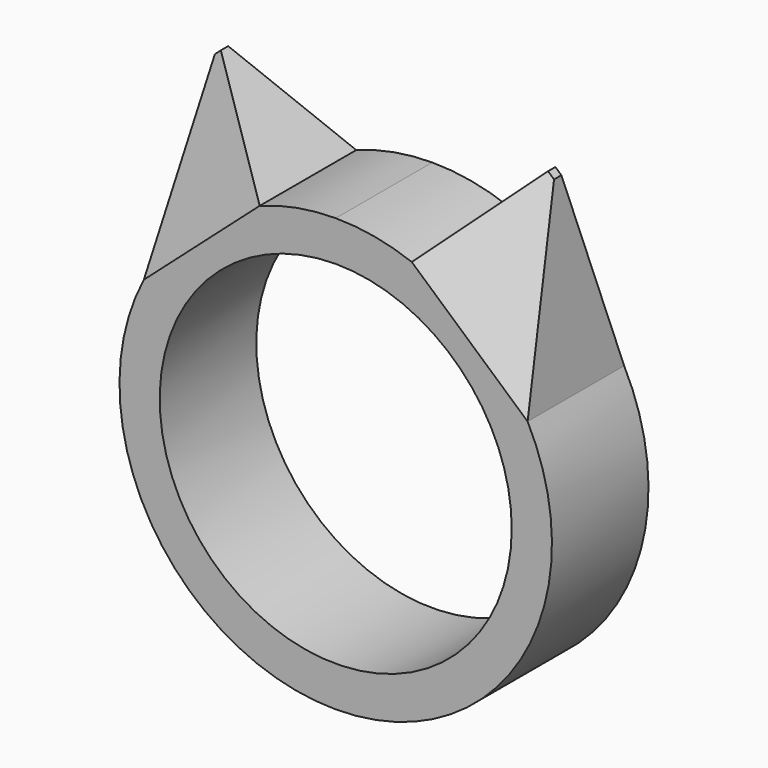
from build123d import *

# Parameters (mm, degrees)
F1_DEPTH  = 6
F1_FACE_W = 6
F1_FACE_H = 7.6992507409
F3_W      = 0.3979424946
F3_H      = 0.4551622551


with BuildPart() as f1:
    # F0 (on Front) → F1 (new body)
    with BuildSketch(Plane.XZ):
        with BuildLine():
            ThreePointArc((3.7797707351, 10.0635894784), (1.9207958125, 10.5770054102), (0, 10.75))
            ThreePointArc((0, 10.75), (-1.9207958125, 10.5770054102), (-3.7797707351, 10.0635894784))
            Line((-3.7797707351, 10.0635894784), (-9.5399799449, 4.9549250904))
            ThreePointArc((-9.5399799449, 4.9549250904), (0, -10.75), (9.5399799449, 4.9549250904))
            Line((9.5399799449, 4.9549250904), (3.7797707351, 10.0635894784))
        make_face()
        with BuildLine():
            ThreePointArc((0, 8.75), (6.1871843354, 6.1871843354), (8.75, 0))
            ThreePointArc((8.75, 0), (-6.1871843354, -6.1871843354), (0, 8.75))
        make_face(mode=Mode.SUBTRACT)
    extrude(amount=F1_DEPTH)

    # F1_face (on face) → F4 section 0
    with BuildSketch(Plane(origin=(6.65987534, -3, 7.5092572844), x_dir=(0, 1, 0), z_dir=(0.663527473, 0, 0.7481519181))):
        Rectangle(F1_FACE_W, F1_FACE_H)
    # F3 (on offset) → F4 section 1
    with BuildSketch(Plane(origin=(10.641040178, 0, 11.9981687931), x_dir=(0.7481519181, 0, -0.663527473), z_dir=(0.663527473, 0, 0.7481519181))):
        with Locations((-3.1523916405, -2.7441481361)):
            Rectangle(F3_W, F3_H)
    loft()

    # F5: F1 across plane


with BuildPart() as f1_1:
    add(f1.part)
    add(f1.part.mirror(Plane.YZ))


solid = f1_1.part
